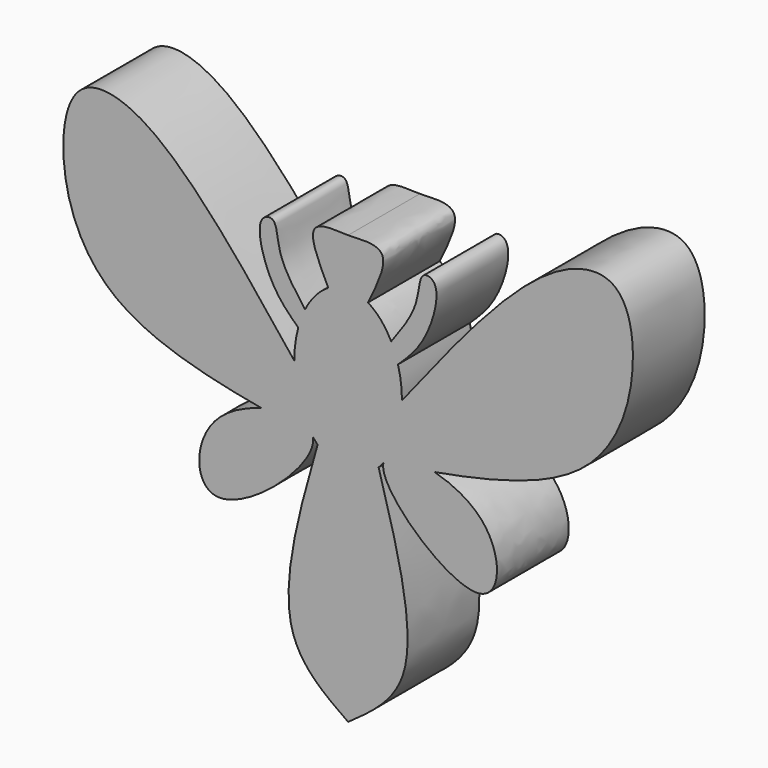
from build123d import *

# Parameters (mm, degrees)
F1_DEPTH = 12.7


with BuildPart() as f1:
    # F0 (on Front) → F1 (new body)
    with BuildSketch(Plane.XZ):
        with BuildLine():
            add(Edge.make_bspline(
                [(0, 31.3865616918), (-2.0655340881, 31.4918837506), (-6.634844586, 31.7311651918), (-4.1488069667, 26.6546093569), (-2.8083838021, 23.9021250858)],
                knots=[0, 0, 0, 0, 0.4537037737, 1, 1, 1, 1], degree=3))
            add(Edge.make_bspline(
                [(-2.8083838021, 23.9021250858), (-4.8082947595, 22.712789575), (-6.0982565542, 20.1302105598)],
                knots=[0.3774533708, 0.3774533708, 0.3774533708, 0.9277889401, 0.9277889401, 0.9277889401], degree=2, weights=[1, 0.9623796227, 1]))
            add(Edge.make_bspline(
                [(-6.0982565542, 20.1302105598), (-6.6892296984, 18.9470477352), (-7.0600645414, 17.577278223)],
                knots=[0.9277889401, 0.9277889401, 0.9277889401, 1.185049393, 1.185049393, 1.185049393], degree=2, weights=[1, 0.9917385329, 1]))
            add(Edge.make_bspline(
                [(-7.0600645414, 17.577278223), (-7.62, 15.5090191739), (-7.62, 13.27672599)],
                knots=[1.185049393, 1.185049393, 1.185049393, 1.5707963268, 1.5707963268, 1.5707963268], degree=2, weights=[1, 0.981457502, 1]))
            add(Edge.make_bspline(
                [(-7.62, 13.27672599), (-7.62, 8.894591354), (-5.6669856339, 5.6356026364)],
                knots=[1.5707963268, 1.5707963268, 1.5707963268, 2.3030061769, 2.3030061769, 2.3030061769], degree=2, weights=[1, 0.9337287888, 1]))
            add(Edge.make_bspline(
                [(-4.9962559247, 4.6465979403), (-5.0856528667, 5.0488279749), (-5.3193884787, 5.3775731394), (-5.6669856339, 5.6356026364)],
                knots=[0, 0, 0, 0, 0.0443378352, 0.0443378352, 0.0443378352, 0.0443378352], degree=3))
            add(Edge.make_bspline(
                [(-4.9962559247, 4.6465979403), (-4.6744076961, 4.2273595181), (-4.3233952759, 3.8645811813)],
                knots=[2.4265142317, 2.4265142317, 2.4265142317, 2.5382784373, 2.5382784373, 2.5382784373], degree=2, weights=[1, 0.9984390016, 1]))
            add(Edge.make_bspline(
                [(-4.3233952759, 3.8645811813), (0, -0.6037340599), (4.3233952759, 3.8645811813)],
                knots=[2.5382784373, 2.5382784373, 2.5382784373, 3.7449068699, 3.7449068699, 3.7449068699], degree=2, weights=[1, 0.8234597383, 1]))
            add(Edge.make_bspline(
                [(4.3233952759, 3.8645811813), (4.6744076961, 4.2273595181), (4.9962559247, 4.6465979403)],
                knots=[3.7449068699, 3.7449068699, 3.7449068699, 3.8566710755, 3.8566710755, 3.8566710755], degree=2, weights=[1, 0.9984390016, 1]))
            add(Edge.make_bspline(
                [(4.9962559247, 4.6465979403), (5.0856528667, 5.0488279749), (5.3193884787, 5.3775731394), (5.6669856339, 5.6356026364)],
                knots=[0, 0, 0, 0, 0.0443378352, 0.0443378352, 0.0443378352, 0.0443378352], degree=3))
            add(Edge.make_bspline(
                [(5.6669856339, 5.6356026364), (7.62, 8.894591354), (7.62, 13.27672599)],
                knots=[3.9801791303, 3.9801791303, 3.9801791303, 4.7123889804, 4.7123889804, 4.7123889804], degree=2, weights=[1, 0.9337287888, 1]))
            add(Edge.make_bspline(
                [(7.62, 13.27672599), (7.62, 15.5090191739), (7.0600645414, 17.577278223)],
                knots=[4.7123889804, 4.7123889804, 4.7123889804, 5.0981359142, 5.0981359142, 5.0981359142], degree=2, weights=[1, 0.981457502, 1]))
            add(Edge.make_bspline(
                [(7.0600645414, 17.577278223), (6.6892296984, 18.9470477352), (6.0982565542, 20.1302105598)],
                knots=[5.0981359142, 5.0981359142, 5.0981359142, 5.3553963671, 5.3553963671, 5.3553963671], degree=2, weights=[1, 0.9917385329, 1]))
            add(Edge.make_bspline(
                [(6.0982565542, 20.1302105598), (4.8082947595, 22.712789575), (2.8083838021, 23.9021250858)],
                knots=[5.3553963671, 5.3553963671, 5.3553963671, 5.9057319364, 5.9057319364, 5.9057319364], degree=2, weights=[1, 0.9623796227, 1]))
            add(Edge.make_bspline(
                [(0, 31.3865616918), (2.0655340881, 31.4918837506), (6.634844586, 31.7311651918), (4.1488069667, 26.6546093569), (2.8083838021, 23.9021250858)],
                knots=[0, 0, 0, 0, 0.4537037737, 1, 1, 1, 1], degree=3))
        make_face()
        with BuildLine():
            add(Edge.make_bspline(
                [(-6.0982565542, 20.1302105598), (-6.6892296984, 18.9470477352), (-7.0600645414, 17.577278223)],
                knots=[0.9277889401, 0.9277889401, 0.9277889401, 1.185049393, 1.185049393, 1.185049393], degree=2, weights=[1, 0.9917385329, 1]))
            add(Edge.make_bspline(
                [(-6.0982565542, 20.1302105598), (-7.5643079924, 22.1260703983), (-10.1506851165, 25.5857514556), (-9.9824893314, 30.4296094526), (-13.4012985052, 29.5820970466), (-11.3080222158, 21.622637187), (-8.4420520744, 18.8939212431), (-7.0600645414, 17.577278223)],
                knots=[0, 0, 0, 0, 0.2414155906, 0.4171777767, 0.5330171927, 0.7743877598, 1, 1, 1, 1], degree=3))
        make_face()
        with BuildLine():
            add(Edge.make_bspline(
                [(-7.62, 13.27672599), (-7.62, 8.894591354), (-5.6669856339, 5.6356026364)],
                knots=[1.5707963268, 1.5707963268, 1.5707963268, 2.3030061769, 2.3030061769, 2.3030061769], degree=2, weights=[1, 0.9337287888, 1]))
            add(Edge.make_bspline(
                [(-7.62, 13.27672599), (-15.1440219955, 22.8330174334), (-26.585649407, 37.3649890556), (-39.0975989286, 39.3057743439), (-41.4817104262, 26.9318430105), (-35.8045326053, 11.1540546771), (-20.6685019346, 7.35671091), (-12.2445248707, 5.8515775658)],
                knots=[0, 0, 0, 0, 0.2657479043, 0.4041335963, 0.5527292296, 0.7425188129, 0.9432480046, 0.9432480046, 0.9432480046, 0.9432480046], degree=3))
            add(Edge.make_bspline(
                [(-5.6669856339, 5.6356026364), (-6.8910950834, 6.5442877068), (-9.5273035137, 6.5759644472), (-12.2445248707, 5.8515775658)],
                knots=[0.0443378352, 0.0443378352, 0.0443378352, 0.0443378352, 0.2004793982, 0.2004793982, 0.2004793982, 0.2004793982], degree=3))
        make_face()
        with BuildLine():
            add(Edge.make_bspline(
                [(6.0982565542, 20.1302105598), (7.5643079924, 22.1260703983), (10.1506851165, 25.5857514556), (9.9824893314, 30.4296094526), (13.4012985052, 29.5820970466), (11.3080222158, 21.622637187), (8.4420520744, 18.8939212431), (7.0600645414, 17.577278223)],
                knots=[0, 0, 0, 0, 0.2414155906, 0.4171777767, 0.5330171927, 0.7743877598, 1, 1, 1, 1], degree=3))
            add(Edge.make_bspline(
                [(7.0600645414, 17.577278223), (6.6892296984, 18.9470477352), (6.0982565542, 20.1302105598)],
                knots=[5.0981359142, 5.0981359142, 5.0981359142, 5.3553963671, 5.3553963671, 5.3553963671], degree=2, weights=[1, 0.9917385329, 1]))
        make_face()
        with BuildLine():
            add(Edge.make_bspline(
                [(-4.9962559247, 4.6465979403), (-5.0856528667, 5.0488279749), (-5.3193884787, 5.3775731394), (-5.6669856339, 5.6356026364)],
                knots=[0, 0, 0, 0, 0.0443378352, 0.0443378352, 0.0443378352, 0.0443378352], degree=3))
            add(Edge.make_bspline(
                [(-5.6669856339, 5.6356026364), (-5.3520050391, 5.1099955427), (-4.9962559247, 4.6465979403)],
                knots=[2.3030061769, 2.3030061769, 2.3030061769, 2.4265142317, 2.4265142317, 2.4265142317], degree=2, weights=[1, 0.9980938259, 1]))
        make_face()
        with BuildLine():
            add(Edge.make_bspline(
                [(-5.6669856339, 5.6356026364), (-5.3520050391, 5.1099955427), (-4.9962559247, 4.6465979403)],
                knots=[2.3030061769, 2.3030061769, 2.3030061769, 2.4265142317, 2.4265142317, 2.4265142317], degree=2, weights=[1, 0.9980938259, 1]))
            add(Edge.make_bspline(
                [(-5.6669856339, 5.6356026364), (-6.8910950834, 6.5442877068), (-9.5273035137, 6.5759644472), (-12.2445248707, 5.8515775658)],
                knots=[0.0443378352, 0.0443378352, 0.0443378352, 0.0443378352, 0.2004793982, 0.2004793982, 0.2004793982, 0.2004793982], degree=3))
            add(Edge.make_bspline(
                [(-12.2445248707, 5.8515775658), (-9.8628209286, 5.4260324827), (-7.4296416397, 5.0361967946), (-4.9962559247, 4.6465979403)],
                knots=[0.9432480046, 0.9432480046, 0.9432480046, 0.9432480046, 1, 1, 1, 1], degree=3))
        make_face()
        with BuildLine():
            add(Edge.make_bspline(
                [(-12.2445248707, 5.8515775658), (-9.8628209286, 5.4260324827), (-7.4296416397, 5.0361967946), (-4.9962559247, 4.6465979403)],
                knots=[0.9432480046, 0.9432480046, 0.9432480046, 0.9432480046, 1, 1, 1, 1], degree=3))
            add(Edge.make_bspline(
                [(-12.2445248707, 5.8515775658), (-14.6123986306, 5.2203236253), (-22.0227090607, 1.5435153833), (-21.6125040968, -14.3954766465), (-4.2210410106, 1.1586182079), (-4.9962559247, 4.6465979403)],
                knots=[0.2004793982, 0.2004793982, 0.2004793982, 0.2004793982, 0.3365461594, 0.6155198334, 1, 1, 1, 1], degree=3))
        make_face()
        with BuildLine():
            add(Edge.make_bspline(
                [(7.62, 13.27672599), (15.1440219955, 22.8330174334), (26.585649407, 37.3649890556), (39.0975989286, 39.3057743439), (41.4817104262, 26.9318430105), (35.8045326053, 11.1540546771), (20.6685019346, 7.35671091), (12.2445248707, 5.8515775658)],
                knots=[0, 0, 0, 0, 0.2657479043, 0.4041335963, 0.5527292296, 0.7425188129, 0.9432480046, 0.9432480046, 0.9432480046, 0.9432480046], degree=3))
            add(Edge.make_bspline(
                [(5.6669856339, 5.6356026364), (7.62, 8.894591354), (7.62, 13.27672599)],
                knots=[3.9801791303, 3.9801791303, 3.9801791303, 4.7123889804, 4.7123889804, 4.7123889804], degree=2, weights=[1, 0.9337287888, 1]))
            add(Edge.make_bspline(
                [(5.6669856339, 5.6356026364), (6.8910950834, 6.5442877068), (9.5273035137, 6.5759644472), (12.2445248707, 5.8515775658)],
                knots=[0.0443378352, 0.0443378352, 0.0443378352, 0.0443378352, 0.2004793982, 0.2004793982, 0.2004793982, 0.2004793982], degree=3))
        make_face()
        with BuildLine():
            add(Edge.make_bspline(
                [(-4.3233952759, 3.8645811813), (0, -0.6037340599), (4.3233952759, 3.8645811813)],
                knots=[2.5382784373, 2.5382784373, 2.5382784373, 3.7449068699, 3.7449068699, 3.7449068699], degree=2, weights=[1, 0.8234597383, 1]))
            add(Edge.make_bspline(
                [(-4.3233952759, 3.8645811813), (-6.9767750064, -5.4605141274), (-11.4507153928, -21.1981754652), (-3.3162525338, -26.9307779918), (0, -29.2673036456)],
                knots=[0, 0, 0, 0, 0.5924063383, 1, 1, 1, 1], degree=3))
            add(Edge.make_bspline(
                [(4.3233952759, 3.8645811813), (6.9767750064, -5.4605141274), (11.4507153928, -21.1981754652), (3.3162525338, -26.9307779918), (0, -29.2673036456)],
                knots=[0, 0, 0, 0, 0.5924063383, 1, 1, 1, 1], degree=3))
        make_face()
        with BuildLine():
            add(Edge.make_bspline(
                [(5.6669856339, 5.6356026364), (6.8910950834, 6.5442877068), (9.5273035137, 6.5759644472), (12.2445248707, 5.8515775658)],
                knots=[0.0443378352, 0.0443378352, 0.0443378352, 0.0443378352, 0.2004793982, 0.2004793982, 0.2004793982, 0.2004793982], degree=3))
            add(Edge.make_bspline(
                [(4.9962559247, 4.6465979403), (5.3520050391, 5.1099955427), (5.6669856339, 5.6356026364)],
                knots=[3.8566710755, 3.8566710755, 3.8566710755, 3.9801791303, 3.9801791303, 3.9801791303], degree=2, weights=[1, 0.9980938259, 1]))
            add(Edge.make_bspline(
                [(12.2445248707, 5.8515775658), (9.8628209286, 5.4260324827), (7.4296416397, 5.0361967946), (4.9962559247, 4.6465979403)],
                knots=[0.9432480046, 0.9432480046, 0.9432480046, 0.9432480046, 1, 1, 1, 1], degree=3))
        make_face()
        with BuildLine():
            add(Edge.make_bspline(
                [(4.9962559247, 4.6465979403), (5.3520050391, 5.1099955427), (5.6669856339, 5.6356026364)],
                knots=[3.8566710755, 3.8566710755, 3.8566710755, 3.9801791303, 3.9801791303, 3.9801791303], degree=2, weights=[1, 0.9980938259, 1]))
            add(Edge.make_bspline(
                [(4.9962559247, 4.6465979403), (5.0856528667, 5.0488279749), (5.3193884787, 5.3775731394), (5.6669856339, 5.6356026364)],
                knots=[0, 0, 0, 0, 0.0443378352, 0.0443378352, 0.0443378352, 0.0443378352], degree=3))
        make_face()
        with BuildLine():
            add(Edge.make_bspline(
                [(12.2445248707, 5.8515775658), (14.6123986306, 5.2203236253), (22.0227090607, 1.5435153833), (21.6125040968, -14.3954766465), (4.2210410106, 1.1586182079), (4.9962559247, 4.6465979403)],
                knots=[0.2004793982, 0.2004793982, 0.2004793982, 0.2004793982, 0.3365461594, 0.6155198334, 1, 1, 1, 1], degree=3))
            add(Edge.make_bspline(
                [(12.2445248707, 5.8515775658), (9.8628209286, 5.4260324827), (7.4296416397, 5.0361967946), (4.9962559247, 4.6465979403)],
                knots=[0.9432480046, 0.9432480046, 0.9432480046, 0.9432480046, 1, 1, 1, 1], degree=3))
        make_face()
    extrude(amount=F1_DEPTH)


solid = f1.part
